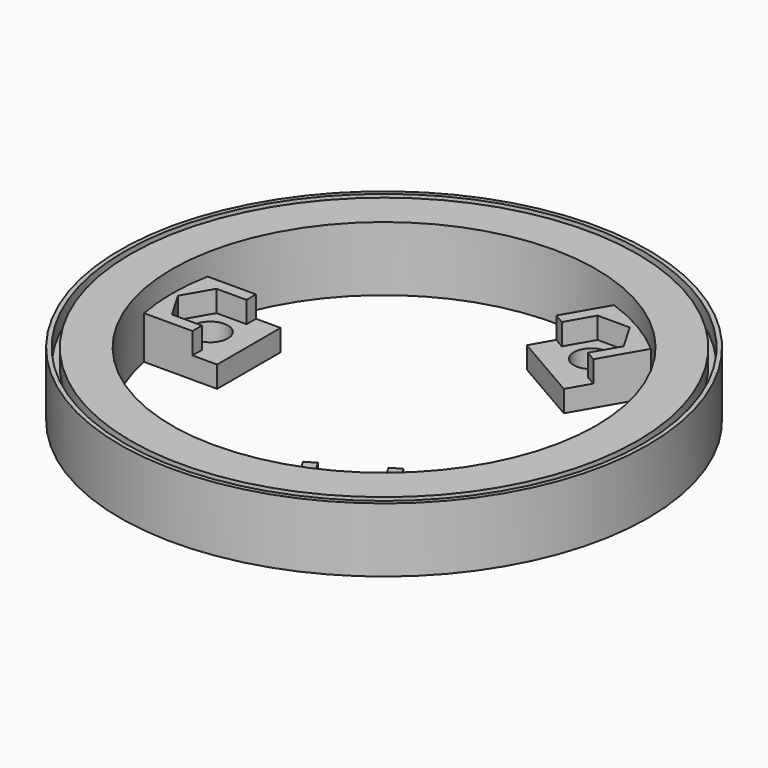
from build123d import *

# Parameters (mm, degrees)
EXTRUDE003_DEPTH  = 5
BOX025_W          = 13.75
BOX025_H          = 18.5
BOX025_DEPTH      = 5
CYLINDER031_R     = 4.1
CYLINDER031_DEPTH = 5
BOX024_W          = 18
BOX024_H          = 18.5
BOX024_DEPTH      = 5
ARRAY035_COUNT    = 3
TUBE016_R         = 60.5
TUBE016_R_2       = 59
TUBE016_DEPTH     = 11
TUBE017_R         = 61.5
TUBE017_R_2       = 60.5
TUBE017_DEPTH     = 15
TUBE024_R         = 55.25
TUBE024_R_2       = 51.75
TUBE024_DEPTH     = 5
TUBE025_R         = 51.9
TUBE025_R_2       = 49.4
TUBE025_DEPTH     = 15
TUBE015_R         = 59
TUBE015_R_2       = 55.25
TUBE015_DEPTH     = 15


with BuildPart() as cockpitrailconnectornutcutout:
    # Face003 → Extrude003 (new body)
    with BuildSketch(Plane(origin=(-40.5, 0, 500), x_dir=(0, 1, 0), z_dir=(0, 0, 1))):
        Polygon((0, -7.5), (6.495191, -3.75), (6.495191, 3.75), (0, 7.5), (-6.495191, 3.75), (-6.495191, -3.75), align=None)
    extrude(amount=-EXTRUDE003_DEPTH)


with BuildPart() as cockpitrailconnectornutanchor1:
    # Box025 → Box025 (new body)
    with BuildSketch(Plane(origin=(-51, -9.25, 495), x_dir=(1, 0, 0), z_dir=(0, 0, 1))):
        with Locations((6.875, 9.25)):
            Rectangle(BOX025_W, BOX025_H)
    extrude(amount=BOX025_DEPTH)

    # Cut059: cut CockpitRailConnectorNutCutout
    add(cockpitrailconnectornutcutout.part, mode=Mode.SUBTRACT)


with BuildPart() as cockpitrailconnectorrailcutter:
    # Cylinder031 → Cylinder031 (new body)
    with BuildSketch(Plane(origin=(-40.5, 0, 490), x_dir=(1, 0, 0), z_dir=(0, 0, 1))):
        Circle(CYLINDER031_R)
    extrude(amount=CYLINDER031_DEPTH)


with BuildPart() as cockpitrailconnectors:
    # Box024 → Box024 (new body)
    with BuildSketch(Plane(origin=(-49.5, -9.25, 490), x_dir=(1, 0, 0), z_dir=(0, 0, 1))):
        with Locations((9, 9.25)):
            Rectangle(BOX024_W, BOX024_H)
    extrude(amount=BOX024_DEPTH)

    # Cut058: cut CockpitRailConnectorRailCutter
    add(cockpitrailconnectorrailcutter.part, mode=Mode.SUBTRACT)

    # Fusion018: union CockpitRailConnectorNutAnchor1
    add(cockpitrailconnectornutanchor1.part)

    # Array035: CockpitRailConnectors ×3 about axis
    array035_axis = Axis((0, 0, 0), (0, 0, 1))


with BuildPart() as cockpitrailconnectors_1:
    add(cockpitrailconnectors.part)
    for i in range(1, ARRAY035_COUNT):
        add(cockpitrailconnectors.part.rotate(array035_axis, i * 360 / ARRAY035_COUNT))


with BuildPart() as cockpitmountcenter:
    # Tube016 → Tube016 (new body)
    with BuildSketch(Plane.XY):
        Circle(TUBE016_R)
        Circle(TUBE016_R_2, mode=Mode.SUBTRACT)
    extrude(amount=TUBE016_DEPTH)


with BuildPart() as cockpitmountouter:
    # Tube017 → Tube017 (new body)
    with BuildSketch(Plane.XY):
        Circle(TUBE017_R)
        Circle(TUBE017_R_2, mode=Mode.SUBTRACT)
    extrude(amount=TUBE017_DEPTH)


with BuildPart() as cockpitconnectorcenter:
    # Tube024 → Tube024 (new body)
    with BuildSketch(Plane.XY.offset(10)):
        Circle(TUBE024_R)
        Circle(TUBE024_R_2, mode=Mode.SUBTRACT)
    extrude(amount=TUBE024_DEPTH)


with BuildPart() as cockpitconnectorinner:
    # Tube025 → Tube025 (new body)
    with BuildSketch(Plane.XY):
        Circle(TUBE025_R)
        Circle(TUBE025_R_2, mode=Mode.SUBTRACT)
    extrude(amount=TUBE025_DEPTH)


with BuildPart() as cockpitglassmount2:
    # Tube015 → Tube015 (new body)
    with BuildSketch(Plane.XY):
        Circle(TUBE015_R)
        Circle(TUBE015_R_2, mode=Mode.SUBTRACT)
    extrude(amount=TUBE015_DEPTH)

    # Fusion007: union CockpitMountCenter, CockpitMountOuter, CockpitConnectorCenter, CockpitConnectorInner
    add(cockpitmountcenter.part)
    add(cockpitmountouter.part)
    add(cockpitconnectorcenter.part)
    add(cockpitconnectorinner.part)


with BuildPart() as cockpitglassmount2_1:
    # Fusion007 placement: moved
    add(cockpitglassmount2.part.moved(Location((0, 0, 490))))

    # Fusion019: union CockpitRailConnectors
    add(cockpitrailconnectors_1.part)


solid = cockpitglassmount2_1.part
